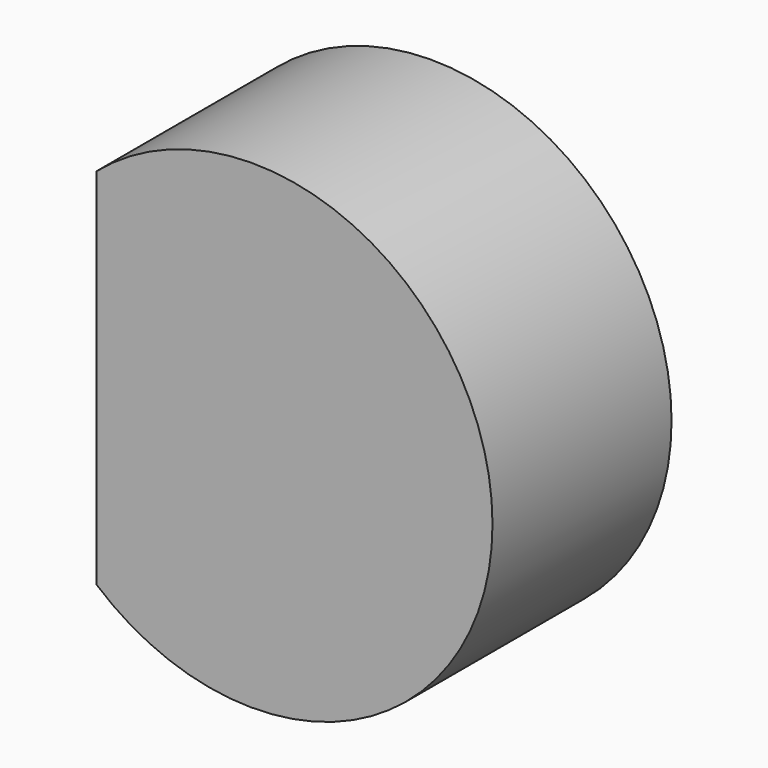
from build123d import *

# Parameters (mm, degrees)
F1_DEPTH = 5.6
F2_R     = 5
F3_DEPTH = 10.8


with BuildPart() as f1:
    # F0 (on Front) → F1 (new body, symmetric)
    with BuildSketch(Plane.XZ):
        with BuildLine():
            Line((-7.281884, 9.102355), (-7.281884, -9.102355))
            ThreePointArc((-7.281884, -9.102355), (12.537779, 0), (-7.281884, 9.102355))
        make_face()
    extrude(amount=F1_DEPTH, both=True)

    # F2 (on face) → F3 (cut)
    with BuildSketch(Plane(origin=(-7.281884, 0, 0), x_dir=(0, -1, 0), z_dir=(-1, 0, 0))):
        Circle(F2_R)
    extrude(amount=-F3_DEPTH, mode=Mode.SUBTRACT)


solid = f1.part
